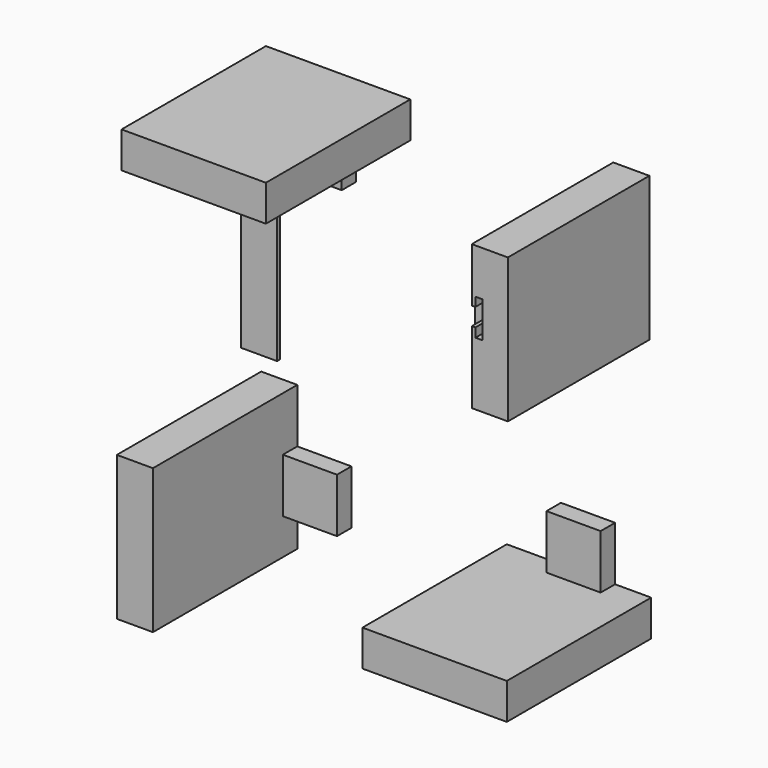
from build123d import *

# Parameters (mm, degrees)
F0_W      = 10
F0_H      = 10
F0_W_2    = 7.5
F0_H_2    = 7.5
F1_DEPTH  = 5
F0_W_3    = 7.45
F0_H_3    = 7.4
F2_W      = 10
F2_H      = 10
F3_DEPTH  = 45
F4_W      = 10
F4_H      = 10
F5_DEPTH  = 45
F6_W      = 10
F6_H      = 10
F7_DEPTH  = 44
F0_H_4    = 40
F8_DEPTH  = 1
F9_W      = 10
F9_H      = 10
F10_DEPTH = 45
F11_DEPTH = 4
F12_DEPTH = 1.1
F13_DEPTH = 2.5


with BuildPart() as f1:
    # F0 (on Front) → F1 (new body)
    with BuildSketch(Plane.XZ):
        with Locations((-48.2978210601, -53.2876135409)):
            Rectangle(F0_W, F0_H)
        with Locations((-32.0478210601, -37.0376135409)):
            Rectangle(F0_W_2, F0_H_2)
        Polygon((-43.2978210601, -18.2876135409), (-53.2978210601, -18.2876135409), (-53.2978210601, -48.2876135409), (-43.2978210601, -48.2876135409), (-43.2978210601, -33.2876135409), align=None)
        Polygon((-43.2978210601, -33.2876135409), (-43.2978210601, -48.2876135409), (-28.2978210601, -48.2876135409), (-28.2978210601, -40.7876135409), (-35.7978210601, -40.7876135409), (-35.7978210601, -33.2876135409), align=None)
    extrude(amount=F1_DEPTH)

    # F4 (on face) → F5 (join)
    with BuildSketch(Plane.XZ.offset(5)):
        with Locations((-48.2978210601, -53.2876135409)):
            Rectangle(F4_W, F4_H)
        Polygon((-53.2978210601, -48.2876135409), (-43.2978210601, -48.2876135409), (-43.2978210601, -33.2876135409), (-43.2978210601, -18.2876135409), (-53.2978210601, -18.2876135409), align=None)
    extrude(amount=F5_DEPTH)


with BuildPart() as f1b:
    # F0 (on Front) → F1, piece 2 (new body)
    with BuildSketch(Plane.XZ):
        with Locations((49.7493183613, -43.2888631523)):
            Rectangle(F0_W, F0_H)
        Polygon((14.7493183613, -38.2888631523), (14.7493183613, -48.2888631523), (44.7493183613, -48.2888631523), (44.7493183613, -38.2888631523), (29.7493183613, -38.2888631523), align=None)
        Polygon((29.7493183613, -38.2888631523), (44.7493183613, -38.2888631523), (44.7493183613, -23.2888631523), (40.9993183613, -23.2888631523), (40.9993183613, -34.5388631523), (29.7493183613, -34.5388631523), align=None)
        with Locations((33.4993183613, -27.0388631523)):
            Rectangle(F0_W_2, F0_H_2)
        Polygon((37.2493183613, -30.7888631523), (40.9993183613, -23.2888631523), (37.2493183613, -23.2888631523), align=None)
        Polygon((29.7493183613, -30.7888631523), (29.7493183613, -34.5388631523), (40.9993183613, -34.5388631523), (40.9993183613, -23.2888631523), (37.2493183613, -30.7888631523), align=None)
    extrude(amount=F1_DEPTH)

    # F9 (on face) → F10 (join)
    with BuildSketch(Plane.XZ.offset(5)):
        with Locations((49.7493183613, -43.2888631523)):
            Rectangle(F9_W, F9_H)
        Polygon((44.7493183613, -48.2888631523), (44.7493183613, -38.2888631523), (29.7493183613, -38.2888631523), (14.7493183613, -38.2888631523), (14.7493183613, -48.2888631523), align=None)
    extrude(amount=F10_DEPTH)


with BuildPart() as f1c:
    # F0 (on Front) → F1, piece 3 (new body)
    with BuildSketch(Plane.XZ):
        with Locations((49.249061197, 59.43582654)):
            Rectangle(F0_W, F0_H)
        Polygon((45.249061197, 49.43582654), (44.249061197, 49.43582654), (44.249061197, 44.43582654), (45.249061197, 44.43582654), (45.249061197, 41.93582654), (47.249061197, 41.93582654), (47.249061197, 51.93582654), (45.249061197, 51.93582654), align=None)
        Polygon((54.249061197, 24.43582654), (54.249061197, 54.43582654), (44.249061197, 54.43582654), (44.249061197, 49.43582654), (45.249061197, 49.43582654), (45.249061197, 51.93582654), (47.249061197, 51.93582654), (47.249061197, 41.93582654), (45.249061197, 41.93582654), (45.249061197, 44.43582654), (44.249061197, 44.43582654), (44.249061197, 39.43582654), (44.249061197, 24.43582654), align=None)
    extrude(amount=F1_DEPTH)

    # F6 (on face) → F7 (join)
    with BuildSketch(Plane.XZ.offset(5)):
        with Locations((49.249061197, 59.43582654)):
            Rectangle(F6_W, F6_H)
        Polygon((54.249061197, 54.43582654), (44.249061197, 54.43582654), (44.249061197, 49.43582654), (45.249061197, 49.43582654), (45.249061197, 51.93582654), (47.249061197, 51.93582654), (47.249061197, 41.93582654), (45.249061197, 41.93582654), (45.249061197, 44.43582654), (44.249061197, 44.43582654), (44.249061197, 39.43582654), (44.249061197, 24.43582654), (54.249061197, 24.43582654), align=None)
    extrude(amount=F7_DEPTH)

    # F11 (cut): a face of the model
    f11_faces = [f1c.faces().sort_by_distance(p)[0] for p in [
        (45.949061197, -5, 46.93582654),
    ]]
    extrude(f11_faces, amount=-F11_DEPTH, mode=Mode.SUBTRACT)


with BuildPart() as f1d:
    # F0 (on Front) → F1, piece 4 (new body)
    with BuildSketch(Plane.XZ):
        with Locations((-46.9960268587, 56.5215918422)):
            Rectangle(F0_W, F0_H)
        Polygon((-11.9960268587, 61.5215918422), (-41.9960268587, 61.5215918422), (-41.9960268587, 51.5215918422), (-26.9960268587, 51.5215918422), (-11.9960268587, 51.5215918422), align=None)
        Polygon((-26.9960268587, 51.5215918422), (-41.9960268587, 51.5215918422), (-41.9960268587, 36.5215918422), (-38.2460268587, 36.5215918422), (-38.2460268587, 47.7715918422), (-26.9960268587, 47.7715918422), align=None)
        Polygon((-26.9960268587, 44.0215918422), (-26.9960268587, 47.7715918422), (-34.4960268587, 44.0215918422), align=None)
        with Locations((-30.7460268587, 40.2715918422)):
            Rectangle(F0_W_2, F0_H_2)
        Polygon((-34.4960268587, 44.0215918422), (-26.9960268587, 47.7715918422), (-38.2460268587, 47.7715918422), (-38.2460268587, 36.5215918422), (-34.4960268587, 36.5215918422), align=None)
    extrude(amount=F1_DEPTH)

    # F2 (on face) → F3 (join)
    with BuildSketch(Plane.XZ.offset(5)):
        with Locations((-46.9960268587, 56.5215918422)):
            Rectangle(F2_W, F2_H)
        Polygon((-41.9960268587, 61.5215918422), (-41.9960268587, 51.5215918422), (-26.9960268587, 51.5215918422), (-11.9960268587, 51.5215918422), (-11.9960268587, 61.5215918422), align=None)
    extrude(amount=F3_DEPTH)


with BuildPart() as f1e:
    # F0 (on Front) → F1, piece 5 (new body)
    with BuildSketch(Plane.XZ):
        Polygon((17.3845035851, 22.5478581712), (9.9345035851, 22.5478581712), (9.9345035851, 7.6478581712), (24.8345035851, 7.6478581712), (24.8345035851, 15.1478581712), (17.3845035851, 15.1478581712), align=None)
        Polygon((33.2845035851, 25.0478581712), (32.2845035851, 25.0478581712), (32.2845035851, 20.1478581712), (33.2845035851, 20.1478581712), (33.2845035851, 17.6978581712), (35.1845035851, 17.6978581712), (35.1845035851, 27.4978581712), (33.2845035851, 27.4978581712), align=None)
        with Locations((21.1095035851, 18.8478581712)):
            Rectangle(F0_W_3, F0_H_3)
        Polygon((17.3845035851, 30.0478581712), (17.3845035851, 22.5478581712), (24.8345035851, 22.5478581712), (24.8345035851, 15.1478581712), (32.2845035851, 15.1478581712), (32.2845035851, 20.1478581712), (32.2845035851, 25.0478581712), (32.2845035851, 30.0478581712), align=None)
    extrude(amount=F1_DEPTH)

    # F0 (on Front) → F12 (cut)
    with BuildSketch(Plane.XZ):
        Polygon((33.2845035851, 25.0478581712), (32.2845035851, 25.0478581712), (32.2845035851, 20.1478581712), (33.2845035851, 20.1478581712), (33.2845035851, 17.6978581712), (35.1845035851, 17.6978581712), (35.1845035851, 27.4978581712), (33.2845035851, 27.4978581712), align=None)
    extrude(amount=F12_DEPTH, mode=Mode.SUBTRACT)

    # F0 (on Front) → F13 (cut)
    with BuildSketch(Plane.XZ):
        Polygon((17.3845035851, 22.5478581712), (9.9345035851, 22.5478581712), (9.9345035851, 7.6478581712), (24.8345035851, 7.6478581712), (24.8345035851, 15.1478581712), (17.3845035851, 15.1478581712), align=None)
    extrude(amount=F13_DEPTH, mode=Mode.SUBTRACT)


with BuildPart() as f8:
    # F0 (on Front) → F8 (new body)
    with BuildSketch(Plane.XZ):
        with Locations((-53.0958873034, 6.3497829065)):
            Rectangle(F0_W, F0_H_4)
    extrude(amount=F8_DEPTH)


solid = Compound([f1.part, f1b.part, f1c.part, f1d.part, f1e.part, f8.part])
